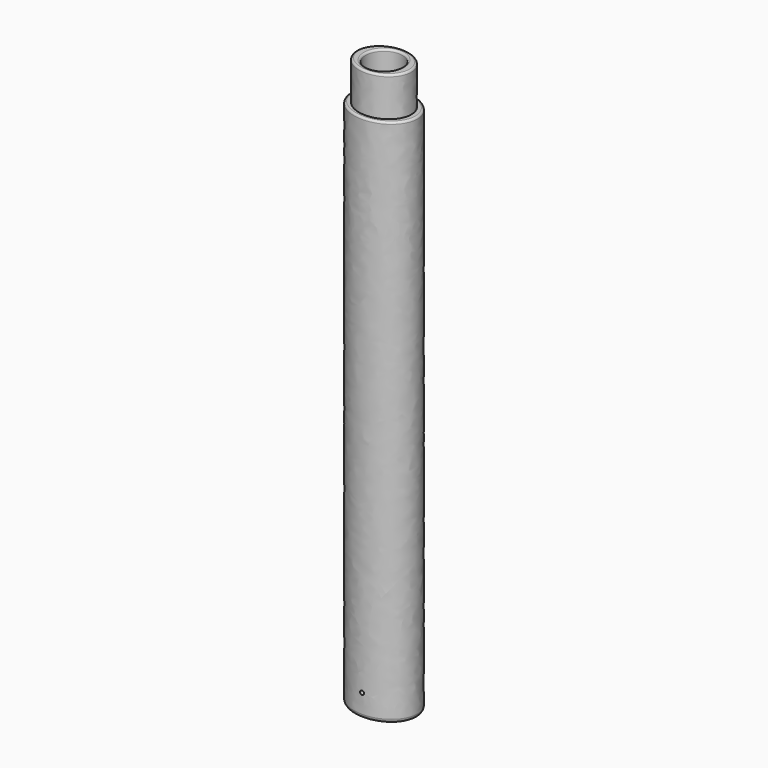
from build123d import *

# Parameters (mm, degrees)
F0_R     = 4.55
F1_DEPTH = 135
F3_DEPTH = 10
F4_R     = 4.68
F5_DEPTH = 143
F6_R     = 0.5
F7_R     = 1
F8_R     = 0.5
F9_DEPTH = 25


with BuildPart() as f1:
    # F0 (on Top) → F1 (new body)
    with BuildSketch(Plane.XY):
        with BuildLine():
            add(Edge.make_bspline(
                [(-8.5, 0), (-8.5, -12.124356), (4.25, -6.062178), (17, 0), (4.25, 6.062178), (-8.5, 12.124356), (-8.5, 0)],
                knots=[0, 0, 0, 2.094395, 2.094395, 4.18879, 4.18879, 6.283185, 6.283185, 6.283185], degree=2, weights=[1, 0.5, 1, 0.5, 1, 0.5, 1]))
        make_face()
        Circle(F0_R, mode=Mode.SUBTRACT)
        Circle(F0_R)
    extrude(amount=F1_DEPTH)

    # F2 (on face) → F3 (join)
    with BuildSketch(Plane.XY.offset(135)):
        with BuildLine():
            add(Edge.make_bspline(
                [(-6.95, 0), (-6.95, -10.305702), (3.475, -5.152851), (13.9, 0), (3.475, 5.152851), (-6.95, 10.305702), (-6.95, 0)],
                knots=[0, 0, 0, 2.094395, 2.094395, 4.18879, 4.18879, 6.283185, 6.283185, 6.283185], degree=2, weights=[1, 0.5, 1, 0.5, 1, 0.5, 1]))
        make_face()
    extrude(amount=F3_DEPTH)

    # F4 (on face) → F5 (cut)
    with BuildSketch(Plane.XY.offset(145)):
        Circle(F4_R)
    extrude(amount=-F5_DEPTH, mode=Mode.SUBTRACT)

    # F6
    f6_edges = [f1.edges().sort_by_distance(p)[0] for p in [
        (-4.68, 0, 145),
        (6.95, 0, 145),
        (8.5, 0, 135),
    ]]
    fillet(f6_edges, radius=F6_R)

    # F7
    f7_edges = [f1.edges().sort_by_distance(p)[0] for p in [
        (8.5, 0, 0),
    ]]
    fillet(f7_edges, radius=F7_R)

    # F8 (on Front) → F9 (cut)
    with BuildSketch(Plane.XZ):
        with Locations((0, 5.827728)):
            Circle(F8_R)
    extrude(amount=F9_DEPTH, mode=Mode.SUBTRACT)


solid = f1.part
